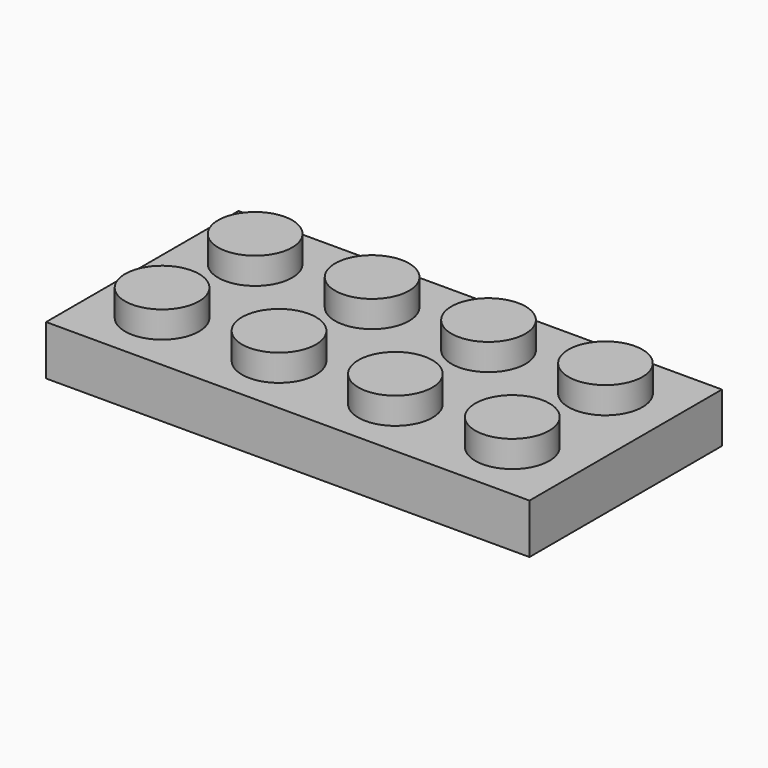
from build123d import *

# Parameters (mm, degrees)
F0_W      = 31.8516
F0_H      = 15.8496
F1_DEPTH  = 3.2766
F2_T      = -1.524
F3_R      = 3.2639
F4_DEPTH  = 1.524
F5_R      = 2.4765
F8_DEPTH  = 1.524
F6_R      = 2.4765
F9_DEPTH  = 1.524
F7_R      = 2.4765
F10_DEPTH = 1.524
F11_R     = 2.4384
F12_DEPTH = 1.7526
F13_R     = 1.2954
F14_DEPTH = 1.778


with BuildPart() as f1:
    # F0 (on Top) → F1 (new body)
    with BuildSketch(Plane.XY):
        Rectangle(F0_W, F0_H)
    extrude(amount=F1_DEPTH)

    # F2
    f2_openings = [f1.faces().sort_by_distance(p)[0] for p in [
        (0, 0, 0),
    ]]
    offset(amount=F2_T, openings=f2_openings)

    # F3 (on face) → F4 (join)
    with BuildSketch(Plane(origin=(0, 0, 1.7526), x_dir=(1, 0, 0), z_dir=(0, 0, -1))):
        Circle(F3_R)
        with Locations((-7.62, 0)):
            Circle(F3_R)
        with Locations((7.62, 0)):
            Circle(F3_R)
    extrude(amount=F4_DEPTH)

    # F5 (on face) → F8 (cut)
    with BuildSketch(Plane(origin=(0, 0, 0.2286), x_dir=(1, 0, 0), z_dir=(0, 0, -1))):
        Circle(F5_R)
    extrude(amount=-F8_DEPTH, mode=Mode.SUBTRACT)

    # F6 (on face) → F9 (cut)
    with BuildSketch(Plane(origin=(0, 0, 0.2286), x_dir=(1, 0, 0), z_dir=(0, 0, -1))):
        with Locations((-7.62, 0)):
            Circle(F6_R)
    extrude(amount=-F9_DEPTH, mode=Mode.SUBTRACT)

    # F7 (on face) → F10 (cut)
    with BuildSketch(Plane(origin=(0, 0, 0.2286), x_dir=(1, 0, 0), z_dir=(0, 0, -1))):
        with Locations((7.62, 0)):
            Circle(F7_R)
    extrude(amount=-F10_DEPTH, mode=Mode.SUBTRACT)

    # F11 (on face) → F12 (join)
    with BuildSketch(Plane.XY.offset(3.2766)):
        with Locations((-11.55889, 3.837082)):
            Circle(F11_R)
        with Locations((-3.853228, 3.837082)):
            Circle(F11_R)
        with Locations((3.815653, 3.837082)):
            Circle(F11_R)
        with Locations((11.521315, 3.837082)):
            Circle(F11_R)
        with Locations((11.521315, -3.831711)):
            Circle(F11_R)
        with Locations((3.815653, -3.831711)):
            Circle(F11_R)
        with Locations((-3.853228, -3.831711)):
            Circle(F11_R)
        with Locations((-11.55889, -3.831711)):
            Circle(F11_R)
    extrude(amount=F12_DEPTH)

    # F13 (on face) → F14 (cut)
    with BuildSketch(Plane(origin=(0, 0, 0), x_dir=(1, 0, 0), z_dir=(0, 0, -1))):
        with Locations((-3.98145, 3.9624)):
            Circle(F13_R)
        with Locations((-11.94435, 3.9624)):
            Circle(F13_R)
        with Locations((-11.94435, -3.9624)):
            Circle(F13_R)
        with Locations((-3.98145, -3.9624)):
            Circle(F13_R)
        with Locations((3.98145, -3.9624)):
            Circle(F13_R)
        with Locations((11.94435, -3.9624)):
            Circle(F13_R)
        with Locations((11.94435, 3.9624)):
            Circle(F13_R)
        with Locations((3.98145, 3.9624)):
            Circle(F13_R)
    extrude(amount=-F14_DEPTH, mode=Mode.SUBTRACT)


solid = f1.part
